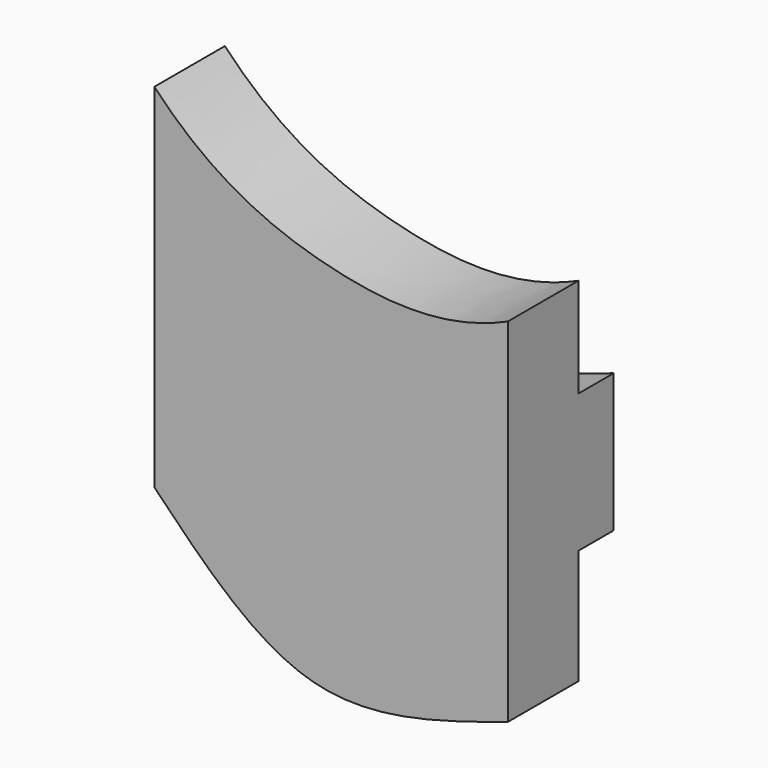
from build123d import *

# Parameters (mm, degrees)
F1_DEPTH = 5.08
F2_DEPTH = 2.54


with BuildPart() as f1:
    # F0 (on Front) → F1 (new body)
    with BuildSketch(Plane.XZ):
        with BuildLine():
            add(Edge.make_bspline(
                [(-69.6174035709, 38.9114496066), (-66.359799217, 35.4671963141), (-59.7726218188, 32.4765695979), (-52.7636727049, 32.0421056963), (-49.2374432345, 33.6344950691)],
                knots=[0, 0, 0, 0, 0.5176243296, 1, 1, 1, 1], degree=3))
            Line((-69.6174035709, 38.9114496066), (-69.6174035709, 33.2070551813))
            add(Edge.make_bspline(
                [(-69.6174035709, 33.2070551813), (-66.5517001475, 30.0939932543), (-60.5547713105, 24.0044248054), (-52.953064486, 26.6280768551), (-49.2374432345, 27.9104858637)],
                knots=[0, 0, 0, 0, 0.5112122399, 1, 1, 1, 1], degree=3))
            Line((-49.2374432345, 27.9104858637), (-49.2374432345, 33.6344950691))
        make_face()
        with BuildLine():
            add(Edge.make_bspline(
                [(-69.6174035709, 33.2070551813), (-66.5517001475, 30.0939932543), (-60.5547713105, 24.0044248054), (-52.953064486, 26.6280768551), (-49.2374432345, 27.9104858637)],
                knots=[0, 0, 0, 0, 0.5112122399, 1, 1, 1, 1], degree=3))
            Line((-69.6174035709, 33.2070551813), (-69.6174035709, 23.7255450338))
            add(Edge.make_bspline(
                [(-69.6174035709, 23.7255450338), (-66.9743276989, 21.3316657539), (-61.4542058548, 16.33199645), (-53.4231625696, 18.6991815426), (-49.2374432345, 19.9329406023)],
                knots=[0, 0, 0, 0, 0.4788075239, 1, 1, 1, 1], degree=3))
            Line((-49.2374432345, 19.9329406023), (-49.2374432345, 27.9104858637))
        make_face()
        with BuildLine():
            add(Edge.make_bspline(
                [(-69.6174035709, 23.7255450338), (-66.9743276989, 21.3316657539), (-61.4542058548, 16.33199645), (-53.4231625696, 18.6991815426), (-49.2374432345, 19.9329406023)],
                knots=[0, 0, 0, 0, 0.4788075239, 1, 1, 1, 1], degree=3))
            Line((-69.6174035709, 23.7255450338), (-69.6174035709, 18.5914496066))
            add(Edge.make_bspline(
                [(-69.6174035709, 18.5914496066), (-66.6750644405, 15.5524841836), (-60.8459826038, 9.5319755458), (-53.0822735417, 12.061697862), (-49.2374432345, 13.3144950691)],
                knots=[0, 0, 0, 0, 0.5047688835, 1, 1, 1, 1], degree=3))
            Line((-49.2374432345, 13.3144950691), (-49.2374432345, 19.9329406023))
        make_face()
    extrude(amount=F1_DEPTH)

    # F0 (on Front) → F2 (join)
    with BuildSketch(Plane.XZ):
        with BuildLine():
            add(Edge.make_bspline(
                [(-69.6174035709, 33.2070551813), (-66.5517001475, 30.0939932543), (-60.5547713105, 24.0044248054), (-52.953064486, 26.6280768551), (-49.2374432345, 27.9104858637)],
                knots=[0, 0, 0, 0, 0.5112122399, 1, 1, 1, 1], degree=3))
            Line((-69.6174035709, 33.2070551813), (-69.6174035709, 23.7255450338))
            add(Edge.make_bspline(
                [(-69.6174035709, 23.7255450338), (-66.9743276989, 21.3316657539), (-61.4542058548, 16.33199645), (-53.4231625696, 18.6991815426), (-49.2374432345, 19.9329406023)],
                knots=[0, 0, 0, 0, 0.4788075239, 1, 1, 1, 1], degree=3))
            Line((-49.2374432345, 19.9329406023), (-49.2374432345, 27.9104858637))
        make_face()
    extrude(amount=-F2_DEPTH)


solid = f1.part
